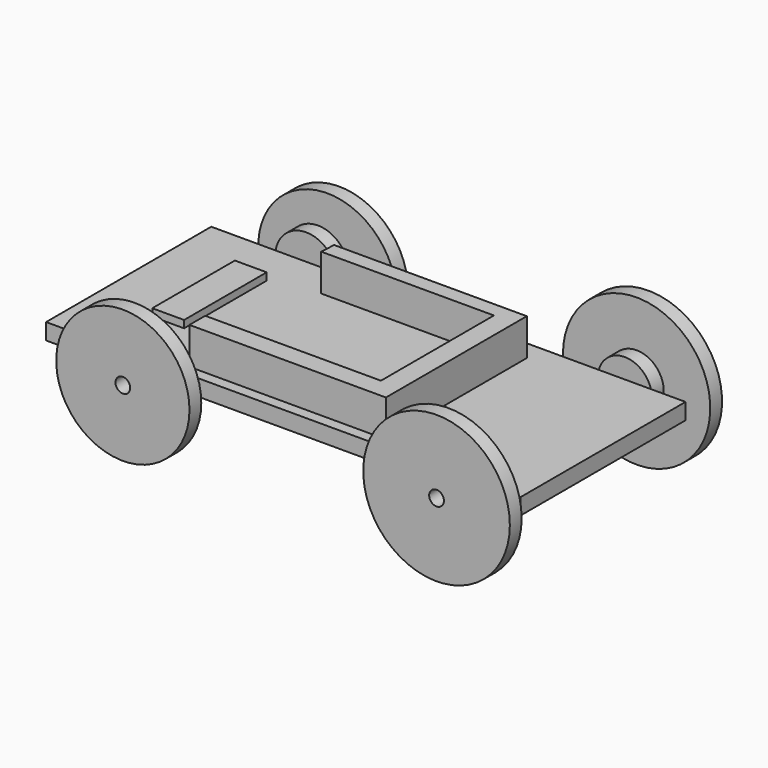
from build123d import *

# Parameters (mm, degrees)
F0_R      = 59.457359
F1_DEPTH  = 12.7
F3_R      = 26.633643
F4_DEPTH  = 12.7
F5_W      = 408.406466
F5_H      = 13.974104
F6_DEPTH  = 177.8
F7_R      = 25.770774
F8_DEPTH  = 12.7
F9_R      = 57.38091
F10_DEPTH = 12.7
F11_W     = 27.406466
F11_H     = 88.9
F12_DEPTH = 6.35
F13_R     = 23.109581
F14_DEPTH = 12.7
F15_R     = 63.126409
F16_DEPTH = 12.7
F17_R     = 23.353727
F18_DEPTH = 12.7
F19_R     = 63.420854
F20_DEPTH = 12.7
F22_DEPTH = 31.75
F24_D     = 12.7
F26_D     = 12.7


with BuildPart() as f1:
    # F0 (on Front) → F1 (new body)
    with BuildSketch(Plane.XZ):
        with Locations((-52.107409, 44.159733)):
            Circle(F0_R)
    extrude(amount=F1_DEPTH)

    # F3 (on face) → F4 (join)
    with BuildSketch(Plane.XZ.offset(12.7)):
        with Locations((-60.155295, 49.909814)):
            Circle(F3_R)
    extrude(amount=F4_DEPTH)

    # F5 (on face) → F6 (join)
    with BuildSketch(Plane.XZ.offset(25.4)):
        with Locations((62.345162, 47.209637)):
            Rectangle(F5_W, F5_H)
    extrude(amount=F6_DEPTH)

    # F7 (on face) → F8 (join)
    with BuildSketch(Plane.XZ.offset(203.2)):
        with Locations((-55.428505, 44.736113)):
            Circle(F7_R)
    extrude(amount=F8_DEPTH)

    # F9 (on face) → F10 (join)
    with BuildSketch(Plane.XZ.offset(215.9)):
        with Locations((-55.428505, 44.736113)):
            Circle(F9_R)
    extrude(amount=F10_DEPTH)

    # F11 (on face) → F12 (join)
    with BuildSketch(Plane.XY.offset(54.196689)):
        with Locations((-77.354838, -107.95)):
            Rectangle(F11_W, F11_H)
    extrude(amount=F12_DEPTH)

    # F13 (on face) → F14 (join)
    with BuildSketch(Plane.XZ.offset(203.2)):
        with Locations((214.701638, 47.041636)):
            Circle(F13_R)
    extrude(amount=F14_DEPTH)

    # F15 (on face) → F16 (join)
    with BuildSketch(Plane.XZ.offset(215.9)):
        with Locations((214.701638, 47.041636)):
            Circle(F15_R)
    extrude(amount=F16_DEPTH)

    # F17 (on face) → F18 (join)
    with BuildSketch(Plane(origin=(0, -25.4, 0), x_dir=(-1, 0, 0), z_dir=(0, 1, 0))):
        with Locations((-214.270413, 47.866244)):
            Circle(F17_R)
    extrude(amount=F18_DEPTH)

    # F19 (on face) → F20 (join)
    with BuildSketch(Plane(origin=(0, -12.7, 0), x_dir=(-1, 0, 0), z_dir=(0, 1, 0))):
        with Locations((-214.270413, 47.866244)):
            Circle(F19_R)
    extrude(amount=F20_DEPTH)

    # F21 (on face) → F22 (join)
    with BuildSketch(Plane.XY.offset(54.196689)):
        Polygon((143.312216, -42.225428), (-22.581015, -42.225428), (-23.332113, -55.224109), (125.416026, -55.224109), (125.416026, -176.853418), (-25.890864, -176.853418), (-25.890864, -193.850324), (143.312216, -193.850324), align=None)
    extrude(amount=F22_DEPTH)

    # F24 (through all)
    with Locations(Plane.XZ.offset(228.6)):
        with Locations((-55.428505, 44.736113)):
            Hole(F24_D / 2)

    # F26 (through all)
    with Locations(Plane.XZ.offset(228.6)):
        with Locations((214.701638, 47.041636)):
            Hole(F26_D / 2)


solid = f1.part
